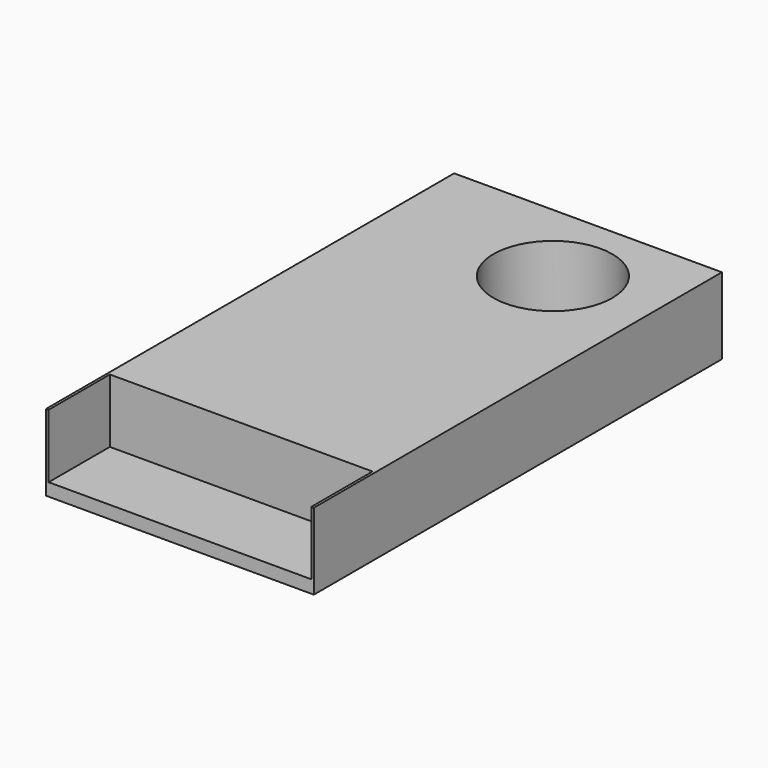
from build123d import *

# Parameters (mm, degrees)
F0_W     = 105
F0_H     = 200
F1_DEPTH = 30
F2_W     = 103
F2_H     = 30
F2_R     = 23.302511
F3_DEPTH = 25


with BuildPart() as f1:
    # F0 (on Top) → F1 (new body)
    with BuildSketch(Plane.XY):
        Rectangle(F0_W, F0_H)
    extrude(amount=F1_DEPTH)

    # F2 (on face) → F3 (cut)
    with BuildSketch(Plane.XY.offset(30)):
        with Locations((0, -85)):
            Rectangle(F2_W, F2_H)
        with Locations((13.65074, 65.713175)):
            Circle(F2_R)
    extrude(amount=-F3_DEPTH, mode=Mode.SUBTRACT)


solid = f1.part
